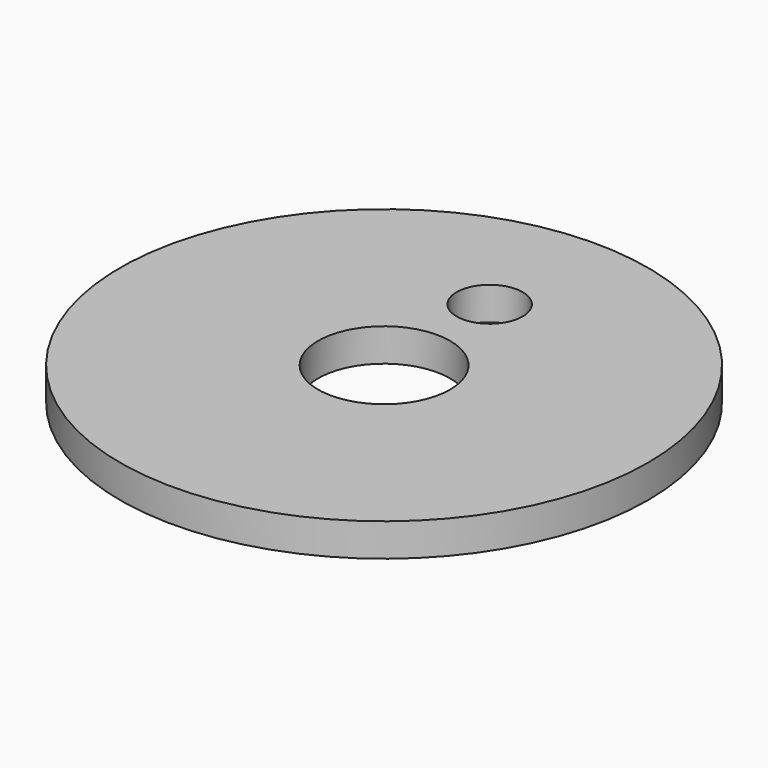
from build123d import *

# Parameters (mm, degrees)
F0_R     = 50.8
F0_R_2   = 12.7
F0_R_3   = 6.35
F1_DEPTH = 6.35


with BuildPart() as f1:
    # F0 (on Top) → F1 (new body)
    with BuildSketch(Plane.XY):
        Circle(F0_R)
        Circle(F0_R_2, mode=Mode.SUBTRACT)
        with Locations((0, 25.4)):
            Circle(F0_R_3, mode=Mode.SUBTRACT)
    extrude(amount=F1_DEPTH)


solid = f1.part
